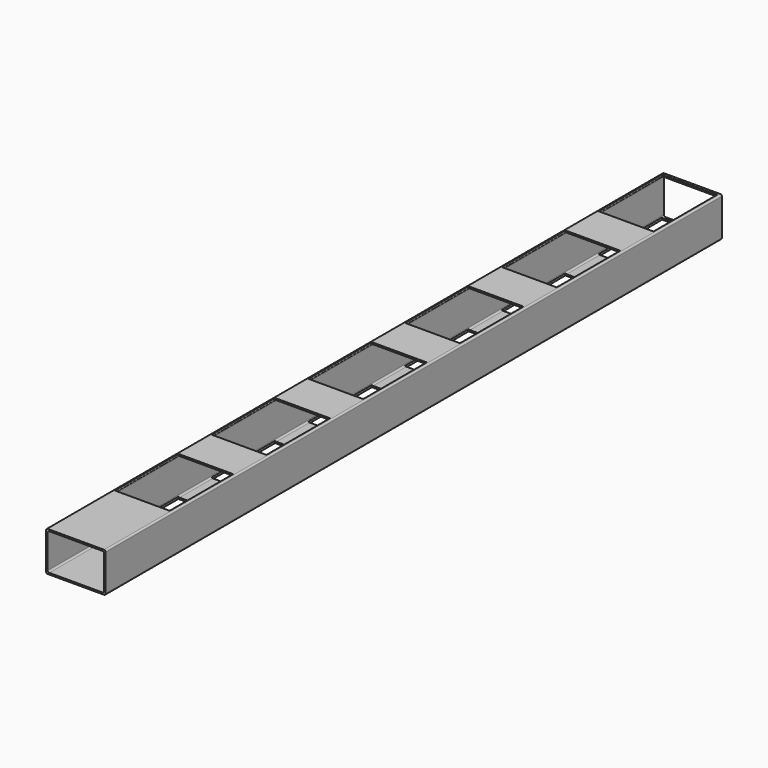
from build123d import *

# Parameters (mm, degrees)
F0_W     = 75
F0_H     = 50
F0_W_2   = 71
F0_H_2   = 46
F1_DEPTH = 970
F3_R     = 2
F4_R     = 2
F2_W     = 69
F2_H     = 100
F5_DEPTH = 60


with BuildPart() as f1:
    # F0 (on Front) → F1 (new body)
    with BuildSketch(Plane.XZ):
        Rectangle(F0_W, F0_H)
        Rectangle(F0_W_2, F0_H_2, mode=Mode.SUBTRACT)
    extrude(amount=F1_DEPTH)

    # F3
    f3_edges = [f1.edges().sort_by_distance(p)[0] for p in [
        (-37.5, -485, 25),
        (37.5, -485, 25),
        (37.5, -485, -25),
        (-37.5, -485, -25),
    ]]
    fillet(f3_edges, radius=F3_R)

    # F4
    f4_edges = [f1.edges().sort_by_distance(p)[0] for p in [
        (-35.5, -485, 23),
        (-35.5, -485, -23),
        (35.5, -485, -23),
        (35.5, -485, 23),
    ]]
    fillet(f4_edges, radius=F4_R)

    # F2 (on face) → F5 (cut)
    with BuildSketch(Plane.XY.offset(25)):
        with Locations((-0.465244, -814.95)):
            Rectangle(F2_W, F2_H)
        with Locations((-0.465244, -662.64)):
            Rectangle(F2_W, F2_H)
        with Locations((-0.465244, -510.33)):
            Rectangle(F2_W, F2_H)
        with Locations((-0.465244, -358.02)):
            Rectangle(F2_W, F2_H)
        with Locations((-0.465244, -205.71)):
            Rectangle(F2_W, F2_H)
        with Locations((-0.465244, -53.4)):
            Rectangle(F2_W, F2_H)
    extrude(amount=-F5_DEPTH, mode=Mode.SUBTRACT)


solid = f1.part
